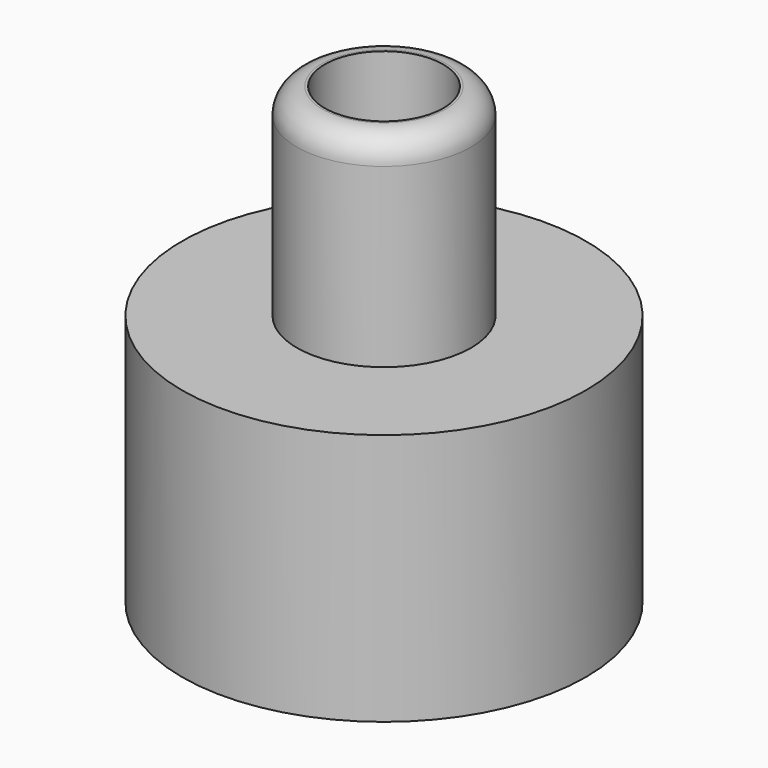
from build123d import *

# Parameters (mm, degrees)
F0_R     = 3.45
F0_R_2   = 2.35
F1_DEPTH = 18
F2_R     = 8
F2_R_2   = 3.45
F3_DEPTH = 10
F4_R     = 1
F5_R     = 1


with BuildPart() as f1:
    # F0 (on Top) → F1 (new body)
    with BuildSketch(Plane.XY):
        Circle(F0_R)
        Circle(F0_R_2, mode=Mode.SUBTRACT)
    extrude(amount=F1_DEPTH)

    # F2 (on Top) → F3 (join)
    with BuildSketch(Plane.XY):
        Circle(F2_R)
        Circle(F2_R_2, mode=Mode.SUBTRACT)
    extrude(amount=F3_DEPTH)

    # F4
    f4_edges = [f1.edges().sort_by_distance(p)[0] for p in [
        (-3.45, 0, 18),
    ]]
    fillet(f4_edges, radius=F4_R)

    # F5
    f5_edges = [f1.edges().sort_by_distance(p)[0] for p in [
        (-2.35, 0, 0),
    ]]
    fillet(f5_edges, radius=F5_R)


solid = f1.part
